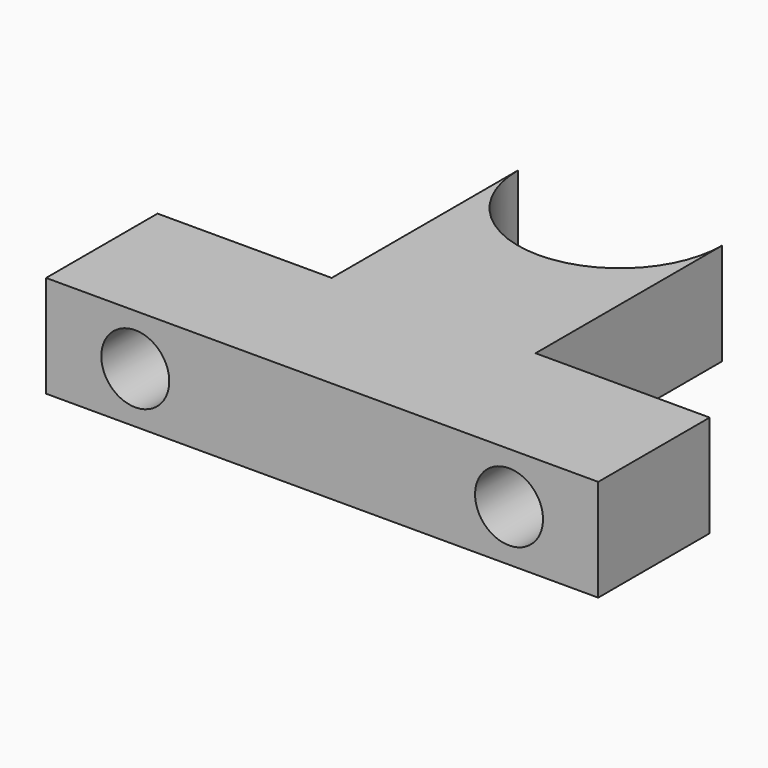
from build123d import *

# Parameters (mm, degrees)
F1_DEPTH = 6
F3_D     = 4


with BuildPart() as f1:
    # F0 (on Top) → F1 (new body)
    with BuildSketch(Plane.XY):
        with BuildLine():
            Line((16.25, 0), (6, 0))
            Line((6, 0), (6, 13.713))
            ThreePointArc((6, 13.713), (0, 7.713), (-6, 13.713))
            Line((-6, 13.713), (-6, 0))
            Line((-6, 0), (-16.25, 0))
            Line((-16.25, 0), (-16.25, -8.2))
            Line((-16.25, -8.2), (16.25, -8.2))
            Line((16.25, -8.2), (16.25, 0))
        make_face()
    extrude(amount=F1_DEPTH)

    # F3 (through all)
    with Locations(Plane.XZ.offset(8.2)):
        with Locations((-11, 3), (11, 3)):
            Hole(F3_D / 2)


solid = f1.part
